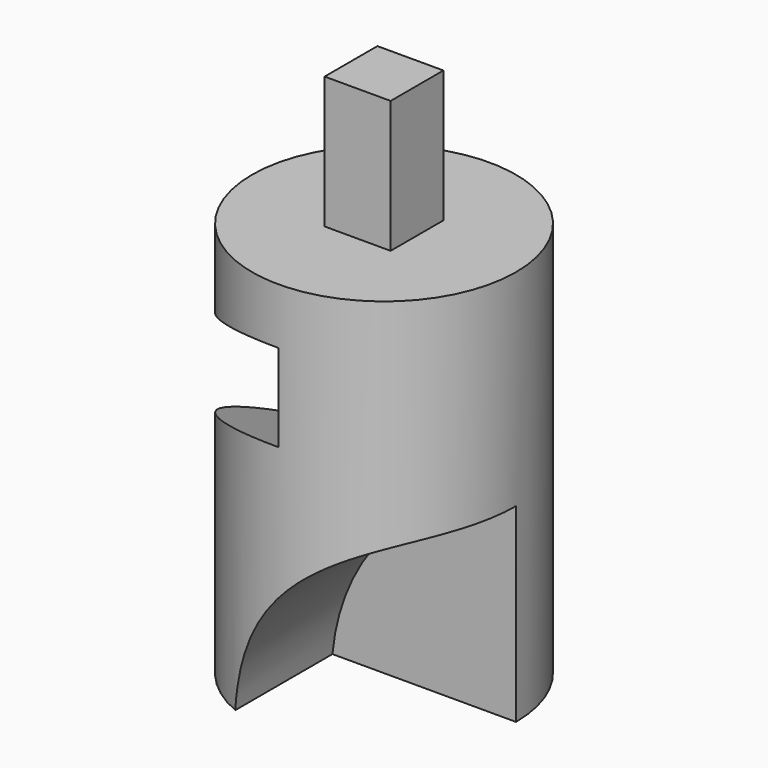
from build123d import *

# Parameters (mm, degrees)
F0_W     = 25.4
F0_H     = 76.2
F3_DEPTH = 58.42
F4_W     = 12.7
F4_H     = 12.7
F5_DEPTH = 25.4
F6_R     = 40.643977
F7_DEPTH = 87.884


with BuildPart() as f1:
    # F0 (on Front) → F1 (revolve)
    with BuildSketch(Plane.XZ):
        with Locations((12.7, -7.62)):
            Rectangle(F0_W, F0_H)
    revolve(axis=Axis((0, 0, -7.62), (0, 0, -1)))

    # F2 (on Right) → F3 (cut)
    with BuildSketch(Plane.YZ):
        Polygon((45.269145, -13.24631), (-37.608135, 25.4), (-44.048837, 11.587869), (38.828442, -27.058441), align=None)
    extrude(amount=-F3_DEPTH, mode=Mode.SUBTRACT)

    # F4 (on face) → F5 (join)
    with BuildSketch(Plane.XY.offset(30.48)):
        Rectangle(F4_W, F4_H)
    extrude(amount=F5_DEPTH)

    # F6 (on Front) → F7 (cut)
    with BuildSketch(Plane.XZ):
        with Locations((30.542457, -49.467545)):
            Circle(F6_R)
    extrude(amount=F7_DEPTH, mode=Mode.SUBTRACT)


solid = f1.part
